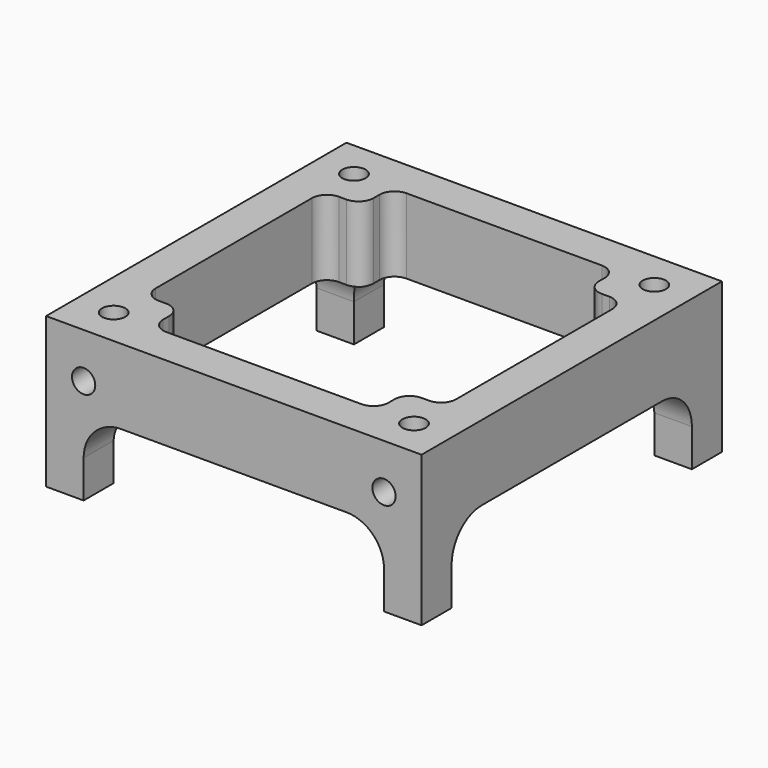
from build123d import *

# Parameters (mm, degrees)
SKETCH182_W     = 50
SKETCH182_H     = 50
PAD031_DEPTH    = 20
POCKET152_DEPTH = 20.001
POCKET153_DEPTH = 50.001
POCKET154_DEPTH = 50.001
SKETCH186_R     = 1.55
POCKET155_DEPTH = 5
SKETCH192_R     = 1.55
POCKET160_DEPTH = 3
SKETCH217_R     = 1.55
POCKET181_DEPTH = 3


with BuildPart() as part:
    # Sketch182 → Pad031 (new body)
    with BuildSketch(Plane.XY):
        Rectangle(SKETCH182_W, SKETCH182_H)
    extrude(amount=PAD031_DEPTH)

    # Sketch183 (on Face6 of Pad031) → Pocket152 (cut, through all)
    with BuildSketch(Plane.XY.offset(20)):
        with BuildLine():
            Line((-18, 15), (-17, 15))
            ThreePointArc((-17, 15), (-15.585786, 15.585786), (-15, 17))
            Line((-15, 17), (-15, 18))
            ThreePointArc((-13, 20), (-14.414214, 19.414214), (-15, 18))
            Line((-13, 20), (13, 20))
            ThreePointArc((15, 18), (14.414214, 19.414214), (13, 20))
            Line((15, 18), (15, 17))
            ThreePointArc((15, 17), (15.585786, 15.585786), (17, 15))
            Line((17, 15), (18, 15))
            ThreePointArc((20, 13), (19.414214, 14.414214), (18, 15))
            Line((20, 13), (20, -13))
            ThreePointArc((18, -15), (19.414214, -14.414214), (20, -13))
            Line((18, -15), (17, -15))
            ThreePointArc((17, -15), (15.585786, -15.585786), (15, -17))
            Line((15, -17), (15, -18))
            ThreePointArc((13, -20), (14.414214, -19.414214), (15, -18))
            Line((13, -20), (-13, -20))
            ThreePointArc((-15, -18), (-14.414214, -19.414214), (-13, -20))
            Line((-15, -18), (-15, -17))
            ThreePointArc((-15, -17), (-15.585786, -15.585786), (-17, -15))
            Line((-17, -15), (-18, -15))
            ThreePointArc((-20, -13), (-19.414214, -14.414214), (-18, -15))
            Line((-20, -13), (-20, 13))
            ThreePointArc((-18, 15), (-19.414214, 14.414214), (-20, 13))
        make_face()
    extrude(amount=-POCKET152_DEPTH, mode=Mode.SUBTRACT)

    # Sketch184 (on Face3 of Pocket152) → Pocket153 (cut, through all)
    with BuildSketch(Plane.YZ.offset(25)):
        with BuildLine():
            Line((-15, 10), (15, 10))
            ThreePointArc((20, 5), (18.535534, 8.535534), (15, 10))
            Line((20, 5), (20, 0))
            Line((20, 0), (-20, 0))
            Line((-20, 0), (-20, 5))
            ThreePointArc((-15, 10), (-18.535534, 8.535534), (-20, 5))
        make_face()
    extrude(amount=-POCKET153_DEPTH, mode=Mode.SUBTRACT)

    # Sketch185 (on Face6 of Pocket152) → Pocket154 (cut, through all)
    with BuildSketch(Plane.XZ.offset(25)):
        with BuildLine():
            Line((-15, 10), (15, 10))
            ThreePointArc((20, 5), (18.535534, 8.535534), (15, 10))
            Line((20, 5), (20, 0))
            Line((20, 0), (-20, 0))
            Line((-20, 0), (-20, 5))
            ThreePointArc((-15, 10), (-18.535534, 8.535534), (-20, 5))
        make_face()
    extrude(amount=-POCKET154_DEPTH, mode=Mode.SUBTRACT)

    # Sketch186 → Pocket155 (cut)
    with BuildSketch(Plane.XY.offset(20)):
        with Locations((-20, 20)):
            Circle(SKETCH186_R)
        with Locations((20, 20)):
            Circle(SKETCH186_R)
        with Locations((20, -20)):
            Circle(SKETCH186_R)
        with Locations((-20, -20)):
            Circle(SKETCH186_R)
    extrude(amount=-POCKET155_DEPTH, mode=Mode.SUBTRACT)

    # Sketch192 (on Face27 of Pocket155) → Pocket160 (cut)
    with BuildSketch(Plane.XZ.offset(25)):
        with Locations((-20, 14)):
            Circle(SKETCH192_R)
        with Locations((20, 14)):
            Circle(SKETCH192_R)
    extrude(amount=-POCKET160_DEPTH, mode=Mode.SUBTRACT)

    # Sketch217 (on Face11 of Pocket160) → Pocket181 (cut)
    with BuildSketch(Plane(origin=(-25, 0, 0), x_dir=(0, -1, 0), z_dir=(-1, 0, 0))):
        with Locations((-20, 14)):
            Circle(SKETCH217_R)
        with Locations((20, 14)):
            Circle(SKETCH217_R)
    extrude(amount=-POCKET181_DEPTH, mode=Mode.SUBTRACT)


with BuildPart() as part_1:
    # Body032 placement: moved
    add(part.part.moved(Location((25, 25, 0))))


solid = part_1.part
